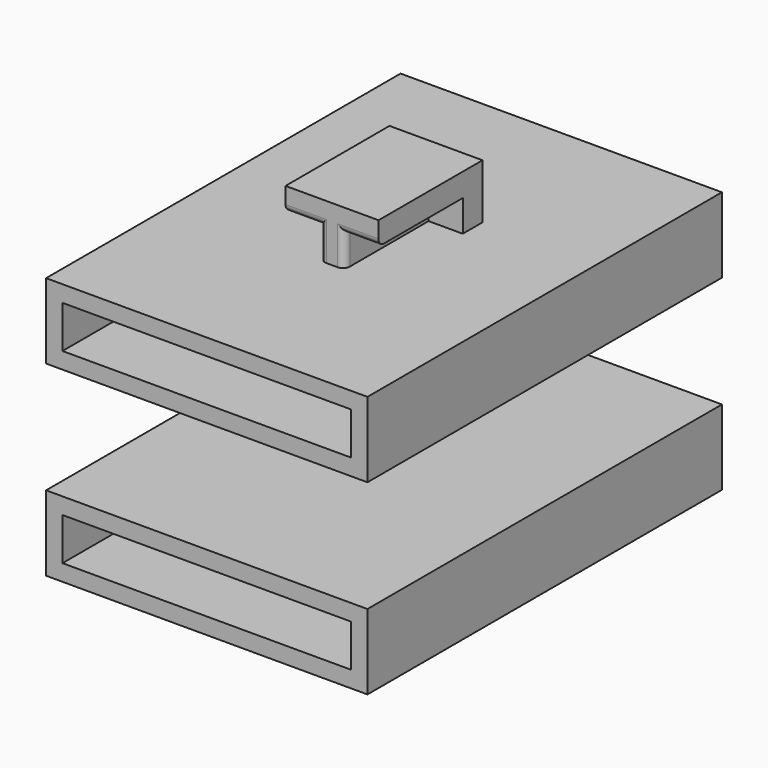
from build123d import *

# Parameters (mm, degrees)
F1_W     = 23.5
F1_H     = 5.5
F1_W_2   = 21.1
F1_H_2   = 3.1
F2_DEPTH = 32.4
F3_DEPTH = 1.2
F4_W     = 21.1
F4_H     = 3.1
F5_DEPTH = 1.2
F4_W_2   = 23.5
F4_H_2   = 5.5
F6_DEPTH = 32.4
F8_START = 2.3
F7_W     = 2.5
F7_H     = 7.7
F8_DEPTH = 1.7
F7_W_2   = 1.8
F9_DEPTH = 4
F10_R    = 0.5


with BuildPart() as f2:
    # F1 (on Front) → F2 (new body)
    with BuildSketch(Plane.XZ):
        Rectangle(F1_W, F1_H)
        Rectangle(F1_W_2, F1_H_2, mode=Mode.SUBTRACT)
    extrude(amount=F2_DEPTH)

    # F1 (on Front) → F3 (join)
    with BuildSketch(Plane.XZ):
        Rectangle(F1_W_2, F1_H_2)
    extrude(amount=F3_DEPTH)


with BuildPart() as f5:
    # F4 (on Front) → F5 (new body)
    with BuildSketch(Plane.XZ):
        with Locations((0, 13.6580683127)):
            Rectangle(F4_W, F4_H)
    extrude(amount=F5_DEPTH)

    # F4 (on Front) → F6 (join, through all)
    with BuildSketch(Plane.XZ):
        with Locations((0, 13.6580683127)):
            Rectangle(F4_W_2, F4_H_2)
        with Locations((0, 13.6580683127)):
            Rectangle(F4_W, F4_H, mode=Mode.SUBTRACT)
    extrude(amount=F6_DEPTH)



with BuildPart() as f8:
    # F7 (on face) → F8 (new body)
    with BuildSketch(Plane.XY.offset(16.4080683127).offset(F8_START)):
        with Locations((2.15, -17.1)):
            Rectangle(F7_W, F7_H)
    extrude(amount=F8_DEPTH)


with BuildPart() as f8b:
    # F7 (on face) → F8, piece 2 (new body)
    with BuildSketch(Plane.XY.offset(16.4080683127).offset(F8_START)):
        with Locations((-2.15, -17.1)):
            Rectangle(F7_W, F7_H)
    extrude(amount=F8_DEPTH)


with BuildPart() as f5_1:
    add(f5.part)

    add(f8.part)  # F9 merges F8

    add(f8b.part)  # F9 merges F8b
    # F7 (on face) → F9 (join)
    with BuildSketch(Plane.XY.offset(16.4080683127)):
        with Locations((0, -17.1)):
            Rectangle(F7_W_2, F7_H)
        Polygon((-3.4, -11.45), (-3.4, -13.25), (-0.9, -13.25), (0.9, -13.25), (3.4, -13.25), (3.4, -11.45), align=None)
    extrude(amount=F9_DEPTH)

    # F10
    f10_edges = [f5_1.edges().sort_by_distance(p)[0] for p in [
        (-2.15, -20.95, 18.708068),
        (2.15, -20.95, 18.708068),
        (0.9, -20.95, 17.558068),
        (-0.9, -20.95, 17.558068),
    ]]
    fillet(f10_edges, radius=F10_R)


solid = Compound([f2.part, f5_1.part])
